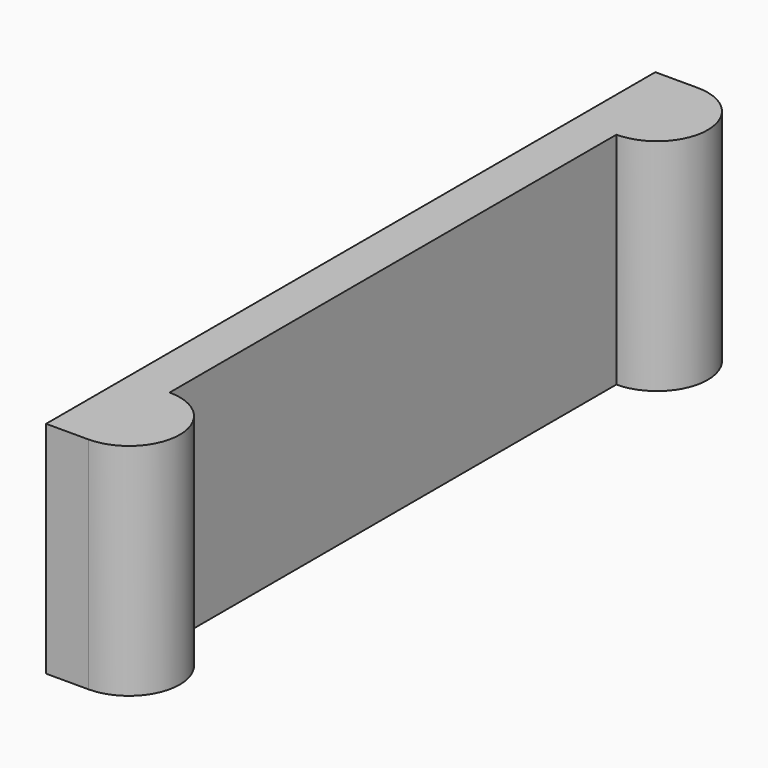
from build123d import *

# Parameters (mm, degrees)
PAD_DEPTH = 13


with BuildPart() as part:
    # Sketch → Pad (new body)
    with BuildSketch(Plane.XY):
        with BuildLine():
            Line((0, 0), (0, 45))
            Line((0, 45), (2.5, 45))
            ThreePointArc((2.5, 39), (5.5, 42), (2.5, 45))
            Line((2.5, 39), (2.5, 6))
            ThreePointArc((2.5, 0), (5.5, 3), (2.5, 6))
            Line((0, 0), (2.5, 0))
        make_face()
    extrude(amount=PAD_DEPTH)


solid = part.part
